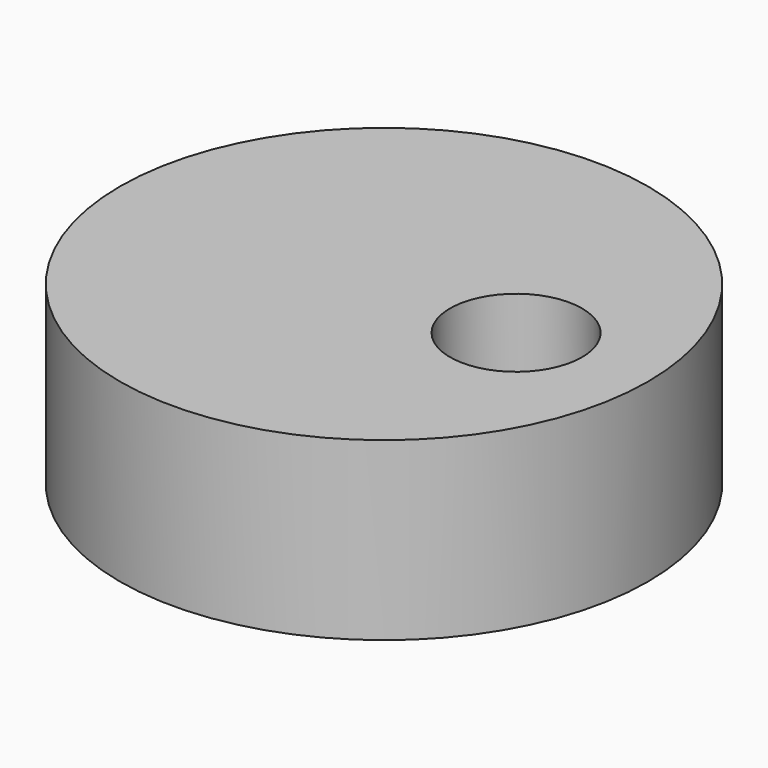
from build123d import *

# Parameters (mm, degrees)
F0_R     = 38.1
F1_DEPTH = 25.4
F3_DEPTH = 25.4


with BuildPart() as f1:
    # F0 (on Top) → F1 (new body)
    with BuildSketch(Plane.XY):
        Circle(F0_R)
    extrude(amount=F1_DEPTH)

    # F2 (on face) → F3 (cut)
    with BuildSketch(Plane.XY.offset(25.4)):
        with BuildLine():
            ThreePointArc((9.525, 0), (19.05, -9.525), (28.575, 0))
            Line((28.575, 0), (9.525, 0))
        make_face()
        with BuildLine():
            Line((9.525, 0), (28.575, 0))
            ThreePointArc((28.575, 0), (19.05, 9.525), (9.525, 0))
        make_face()
    extrude(amount=-F3_DEPTH, mode=Mode.SUBTRACT)


solid = f1.part
